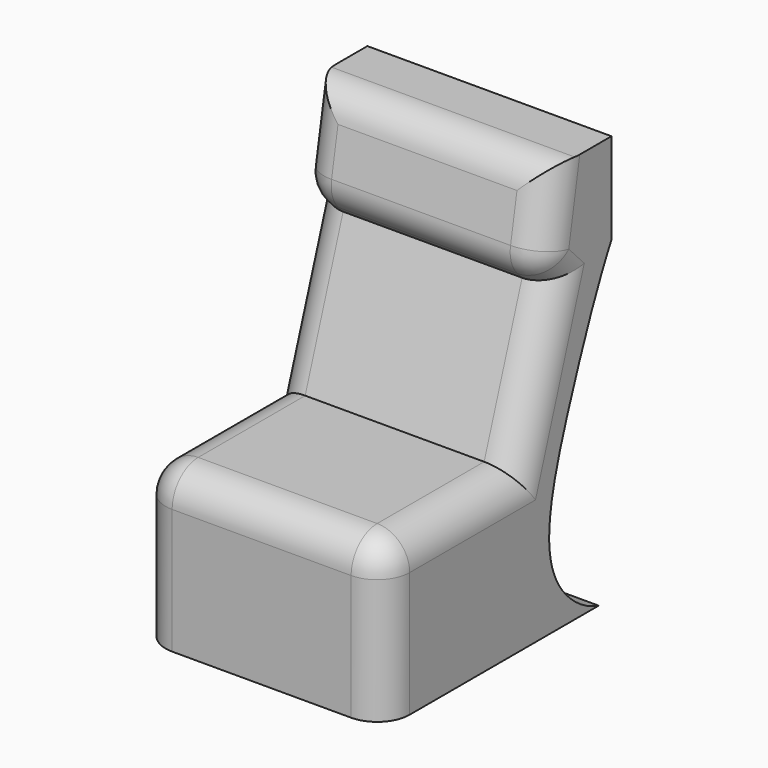
from build123d import *

# Parameters (mm, degrees)
F0_W      = 76.2
F0_H      = 88.9
F1_DEPTH  = 127
F4_R      = 10.16
F5_DEPTH  = 76.201
F7_DEPTH  = 93.98
F10_DEPTH = 239.014
F11_R     = 10.16


with BuildPart() as f1:
    # F0 (on Top) → F1 (new body)
    with BuildSketch(Plane.XY):
        Rectangle(F0_W, F0_H)
    extrude(amount=F1_DEPTH)

    # F4
    f4_edges = [f1.edges().sort_by_distance(p)[0] for p in [
        (-38.1, -44.45, 63.5),
        (38.1, -44.45, 63.5),
    ]]
    fillet(f4_edges, radius=F4_R)

    # F3 (on face) → F5 (cut, through all)
    with BuildSketch(Plane.YZ.offset(38.1)):
        Polygon((-45.809648931, 49.2461211979), (7.4780625291, 49.2461211979), (22.2772937268, 93.8081741333), (16.8910045177, 99.4559377432), (22.2772937268, 129.883646965), (-45.809648931, 129.883646965), align=None)
    extrude(amount=-F5_DEPTH, mode=Mode.SUBTRACT)

    # F6 (on face) → F7 (cut)
    with BuildSketch(Plane(origin=(-38.1, 0, 0), x_dir=(0, -1, 0), z_dir=(-1, 0, 0))):
        with BuildLine():
            add(Edge.make_bspline(
                [(-48.9771775901, 121.8602433801), (-46.9556517053, 122.0553146871), (-45.5208898805, 120.6970387614), (-44.45, 118.2441702513)],
                knots=[0, 0, 0, 0, 0.0422373961, 0.0422373961, 0.0422373961, 0.0422373961], degree=3))
            add(Edge.make_bspline(
                [(-41.446827352, 0), (-59.6918978557, -6.5861209891), (-127.8152635251, 4.6198323194), (-62.2027540723, 120.584014117), (-48.9771775901, 121.8602433801)],
                knots=[0.5271103159, 0.5271103159, 0.5271103159, 0.5271103159, 0.7236671981, 1, 1, 1, 1], degree=3))
            Line((-41.446827352, 0), (-44.45, 0))
            Line((-44.45, 0), (-44.45, 118.2441702513))
        make_face()
    extrude(amount=-F7_DEPTH, mode=Mode.SUBTRACT)

    # F9 (on offset) → F10 (cut)
    with BuildSketch(Plane.YZ.offset(-192.024)):
        with BuildLine():
            add(Edge.make_bspline(
                [(58.8335432112, 110.7725277543), (50.7674633443, 117.1402640213), (25.8725163169, 57.9043750617), (12.2630217786, 9.8618308242), (73.8166292381, -18.5103461722), (69.968843038, 101.9818073895), (58.8335432112, 110.7725277543)],
                knots=[0, 0, 0, 0, 0.243523168, 0.4811201123, 0.6638139549, 1, 1, 1, 1], degree=3))
        make_face()
    extrude(amount=F10_DEPTH, mode=Mode.SUBTRACT)

    # F11
    f11_edges = [f1.edges().sort_by_distance(p)[0] for p in [
        (0, 16.891005, 99.455938),
        (-38.1, 14.877678, 71.527148),
        (38.1, 14.877678, 71.527148),
        (-38.1, -13.405969, 49.246121),
        (-38.1, 19.328919, 113.227969),
        (-38.1, 19.584149, 96.632056),
        (38.1, 19.584149, 96.632056),
        (38.1, 19.328919, 113.227969),
        (0, 21.766833, 127),
    ]]
    fillet(f11_edges, radius=F11_R)


solid = f1.part
